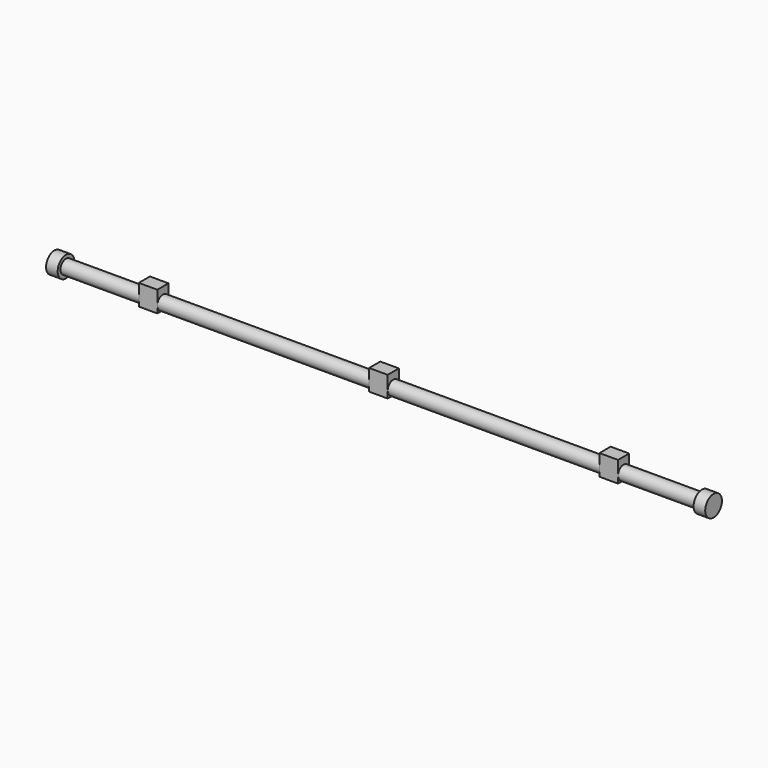
from build123d import *

# Parameters (mm, degrees)
F0_R     = 19.05
F1_DEPTH = 901.7
F2_W     = 38.1
F2_H     = 57.15
F3_DEPTH = 25.4
F5_W     = 38.1
F5_H     = 57.15
F6_DEPTH = 25.4
F7_R     = 28.575
F7_R_2   = 19.05
F8_DEPTH = 31.75


with BuildPart() as f1:
    # F0 (on Right) → F1 (new body, symmetric)
    with BuildSketch(Plane.YZ):
        Circle(F0_R)
    extrude(amount=F1_DEPTH, both=True)

    # F2 (on Right) → F3 (join, symmetric)
    with BuildSketch(Plane.YZ):
        with Locations((0, 9.525)):
            Rectangle(F2_W, F2_H)
    extrude(amount=F3_DEPTH, both=True)

    # F5 (on offset) → F6 (join, symmetric)
    with BuildSketch(Plane.YZ.offset(630.2375)):
        with Locations((0, 9.525)):
            Rectangle(F5_W, F5_H)
    extrude(amount=F6_DEPTH, both=True)



with BuildPart() as f8:
    # F7 (on face) → F8 (new body)
    with BuildSketch(Plane.YZ.offset(901.7)):
        Circle(F7_R)
        Circle(F7_R_2, mode=Mode.SUBTRACT)
    extrude(amount=-F8_DEPTH)


with BuildPart() as f1_1:
    add(f1.part)

    add(f8.part)  # F9 merges F8
    # F9: F1, F8 across plane
    add(f1.part.mirror(Plane.YZ))
    add(f8.part.mirror(Plane.YZ))


solid = f1_1.part
